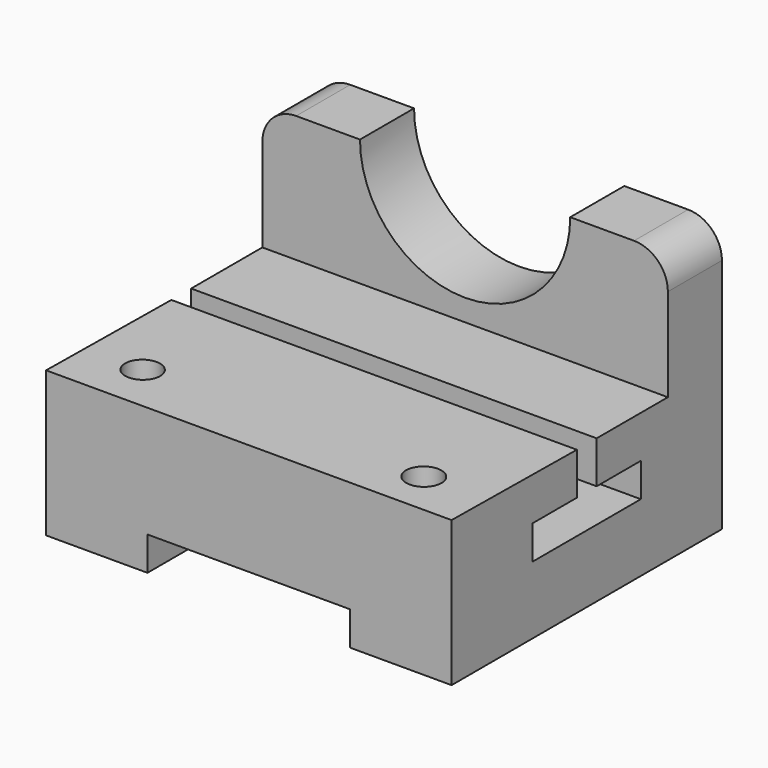
from build123d import *

# Parameters (mm, degrees)
F1_DEPTH = 152.4
F2_W     = 76.2
F2_H     = 12.7
F3_DEPTH = 127.001
F4_R     = 39.507453211
F5_DEPTH = 25.4
F6_R     = 12.7
F7_R     = 6.6080051974
F7_R_2   = 6.5366056143
F8_DEPTH = 54.6147514972


with BuildPart() as f1:
    # F0 (on Right) → F1 (new body)
    with BuildSketch(Plane.YZ):
        Polygon((68.1480239093, 47.625), (42.7480239093, 47.625), (42.7480239093, 0), (9.2960478187, 0), (9.2960478187, -15.875), (30.0480239093, -15.875), (30.0480239093, -28.575), (-20.7519760907, -28.575), (-20.7519760907, -15.875), (0, -15.875), (0, 0), (-58.8519760907, 0.6420009357), (-58.8519760907, -53.975), (68.1480239093, -53.975), align=None)
    extrude(amount=F1_DEPTH)

    # F2 (on face) → F3 (cut, through all)
    with BuildSketch(Plane.XZ.offset(58.8519760907)):
        with Locations((76.2, -47.625)):
            Rectangle(F2_W, F2_H)
    extrude(amount=-F3_DEPTH, mode=Mode.SUBTRACT)

    # F4 (on face) → F5 (cut)
    with BuildSketch(Plane.XZ.offset(-42.7480239093)):
        with Locations((76.2, 47.625)):
            Circle(F4_R)
        with BuildLine():
            ThreePointArc((36.692546789, 47.625), (76.2, 8.117546789), (115.707453211, 47.625))
            Line((115.707453211, 47.625), (36.692546789, 47.625))
        make_face()
    extrude(amount=-F5_DEPTH, mode=Mode.SUBTRACT)

    # F6
    f6_edges = [f1.edges().sort_by_distance(p)[0] for p in [
        (152.4, 55.448024, 47.625),
        (0, 55.448024, 47.625),
    ]]
    fillet(f6_edges, radius=F6_R)

    # F7 (on face) → F8 (cut, through all)
    with BuildSketch(Plane(origin=(0, 0, 0), x_dir=(1, 0, 0), z_dir=(0, 0.0109080915, 0.999940505))):
        with Locations((128.5557597876, -42.1188808978)):
            Circle(F7_R)
        with Locations((21.6534994543, -40.5630394816)):
            Circle(F7_R_2)
    extrude(amount=-F8_DEPTH, mode=Mode.SUBTRACT)


solid = f1.part
